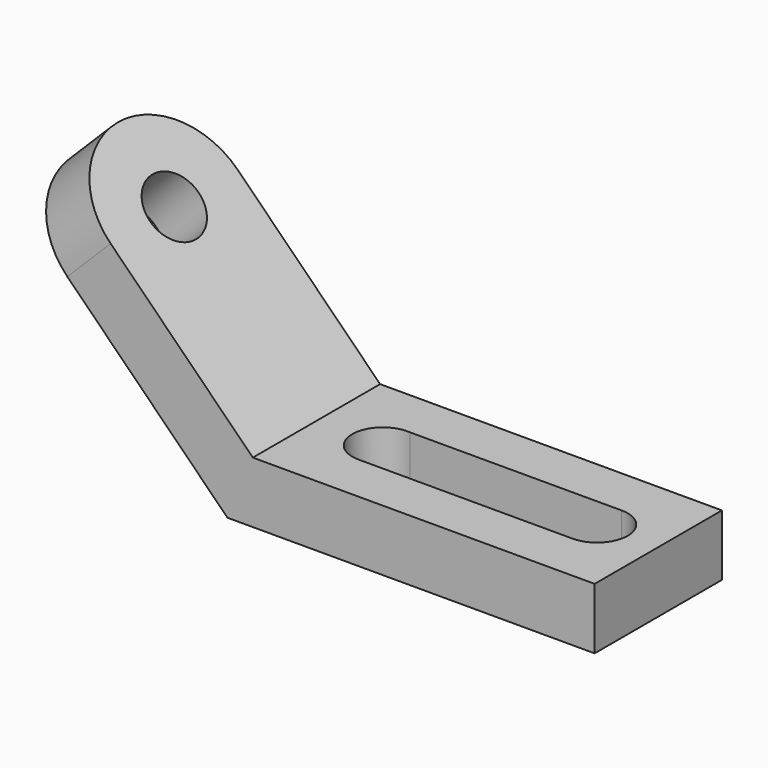
from build123d import *

# Parameters (mm, degrees)
F1_DEPTH = 52
F3_DEPTH = 20
F4_R     = 10
F5_DEPTH = 25


with BuildPart() as f1:
    # F0 (on Front) → F1 (new body)
    with BuildSketch(Plane.XZ):
        Polygon((0, 0), (-64.8528137424, 64.8528137424), (-78.9949493661, 50.7106781187), (-8.2842712475, -20), (111.7157287525, -20), (111.7157287525, 0), align=None)
    extrude(amount=F1_DEPTH)

    # F2 (on face) → F3 (cut, through all)
    with BuildSketch(Plane.XY):
        with BuildLine():
            Line((21.7918254922, -35.9997104601), (91.7156873447, -36))
            ThreePointArc((91.7156873447, -36), (101.7157283101, -25.9970253962), (91.7097381372, -16.0000017944))
            Line((91.7097381372, -16.0000017944), (22.6246005983, -16.0413880501))
            ThreePointArc((22.6246005983, -16.0413880501), (11.724422575, -25.5831056894), (21.7918254922, -35.9997104601))
        make_face()
    extrude(amount=-F3_DEPTH, mode=Mode.SUBTRACT)

    # F4 (on face) → F5 (cut)
    with BuildSketch(Plane(origin=(0, 0, 0), x_dir=(0.7071067812, 0, -0.7071067812), z_dir=(0.7071067812, 0, 0.7071067812))):
        with BuildLine():
            ThreePointArc((-65.7157287525, -52), (-84.1005050634, -44.3847763109), (-91.7157287525, -26))
            Line((-91.7157287525, -26), (-91.7157287525, -52))
            Line((-91.7157287525, -52), (-65.7157287525, -52))
        make_face()
        with Locations((-65.7157287525, -26)):
            Circle(F4_R)
        with BuildLine():
            ThreePointArc((-91.7157287525, -26), (-84.1005050634, -7.6152236891), (-65.7157287525, 0))
            Line((-65.7157287525, 0), (-91.7157287525, 0))
            Line((-91.7157287525, 0), (-91.7157287525, -26))
        make_face()
    extrude(amount=-F5_DEPTH, mode=Mode.SUBTRACT)


solid = f1.part
